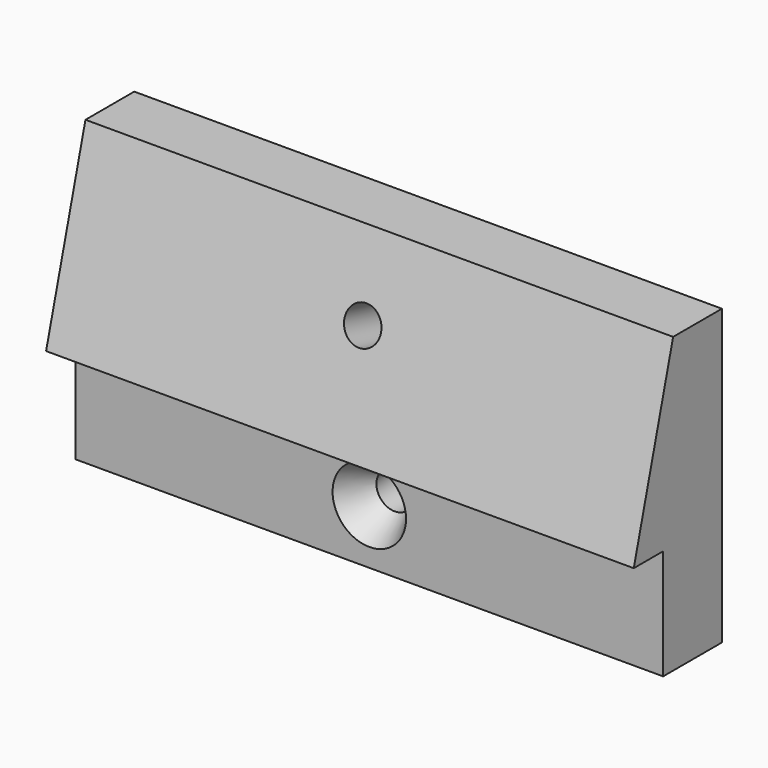
from build123d import *

# Parameters (mm, degrees)
F0_W     = 50.8
F0_H     = 50.8
F1_DEPTH = 19.05
F2_W     = 6.35
F2_H     = 19.05
F3_DEPTH = 101.601
F4_R     = 3.175
F5_DEPTH = 23.3323898
F6_R     = 3.175
F7_DEPTH = 12.701
F8_R     = 6.35
F9_DEPTH = 6.35
F9_TAPER = 30


with BuildPart() as f1:
    # F0 (on Front) → F1 (new body)
    with BuildSketch(Plane.XZ):
        with Locations((-25.4, 25.4)):
            Rectangle(F0_W, F0_H)
        with Locations((25.4, 25.4)):
            Rectangle(F0_W, F0_H)
    extrude(amount=-F1_DEPTH)

    # F2 (on face) → F3 (cut, through all)
    with BuildSketch(Plane.YZ.offset(50.8)):
        Polygon((0, 50.8), (0, 19.05), (8.5073868597, 50.8), align=None)
        with Locations((3.175, 9.525)):
            Rectangle(F2_W, F2_H)
    extrude(amount=-F3_DEPTH, mode=Mode.SUBTRACT)

    # F4 (on face) → F5 (cut, through all)
    with BuildSketch(Plane(origin=(0, -4.7625, 1.276108029), x_dir=(1, 0, 0), z_dir=(0, -0.9659258263, 0.2588190451))):
        with Locations((0, 37.4508869908)):
            Circle(F4_R)
    extrude(amount=-F5_DEPTH, mode=Mode.SUBTRACT)

    # F6 (on face) → F7 (cut, through all)
    with BuildSketch(Plane.XZ.offset(-6.35)):
        with Locations((0, 9.525)):
            Circle(F6_R)
    extrude(amount=-F7_DEPTH, mode=Mode.SUBTRACT)

    # F8 (on face) → F9 (cut)
    with BuildSketch(Plane.XZ.offset(-6.35)):
        with Locations((0, 9.525)):
            Circle(F8_R)
    extrude(amount=-F9_DEPTH, taper=F9_TAPER, mode=Mode.SUBTRACT)


solid = f1.part
